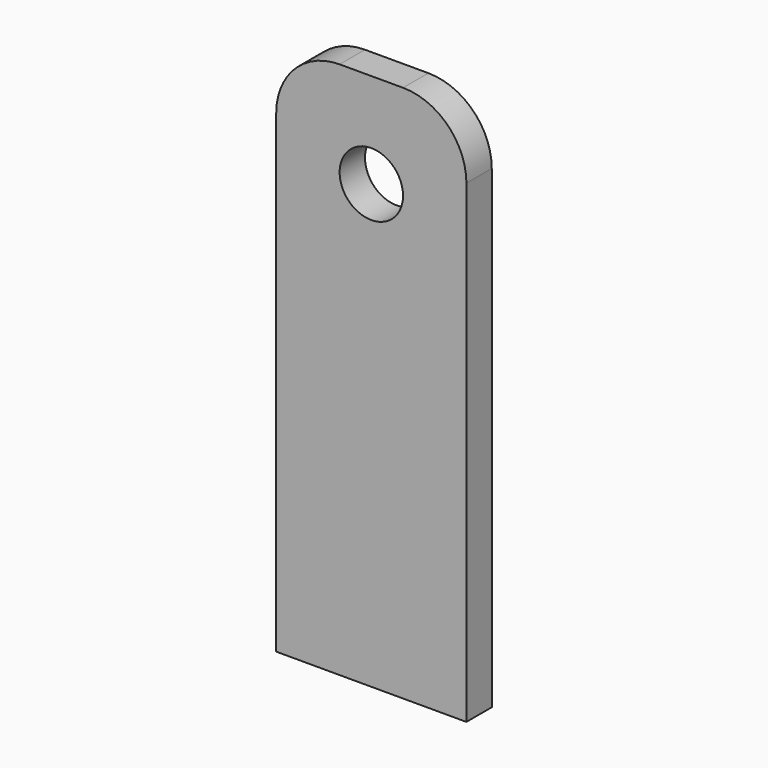
from build123d import *

# Parameters (mm, degrees)
F0_W     = 30
F0_H     = 84.82
F0_R     = 5
F1_DEPTH = 5
F2_R     = 10


with BuildPart() as f1:
    # F0 (on Front) → F1 (new body)
    with BuildSketch(Plane.XZ):
        Rectangle(F0_W, F0_H)
        with Locations((0, 27.41)):
            Circle(F0_R, mode=Mode.SUBTRACT)
    extrude(amount=F1_DEPTH)

    # F2
    f2_edges = [f1.edges().sort_by_distance(p)[0] for p in [
        (15, -2.5, 42.41),
        (-15, -2.5, 42.41),
    ]]
    fillet(f2_edges, radius=F2_R)


solid = f1.part
